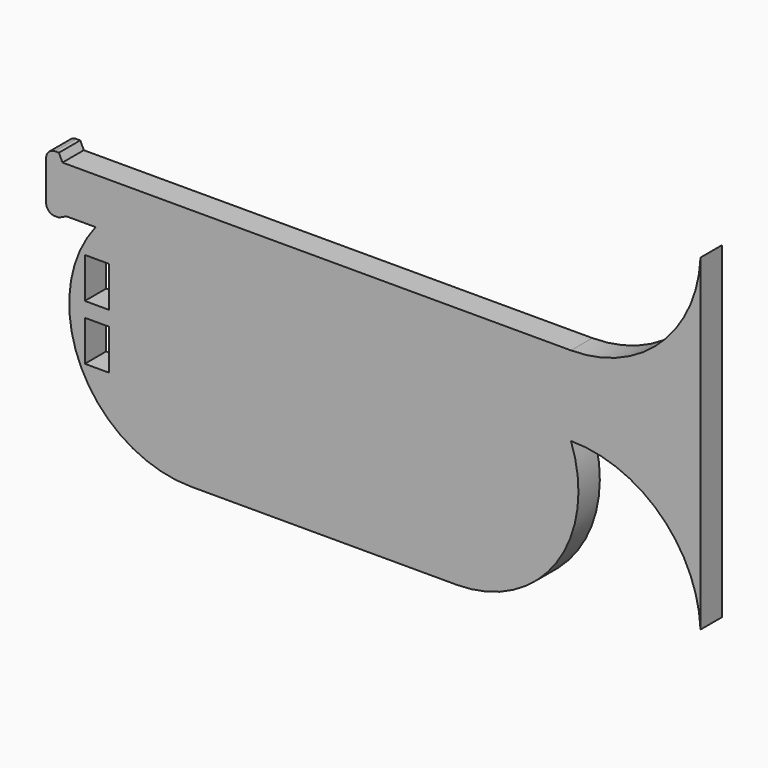
from build123d import *

# Parameters (mm, degrees)
F0_W     = 2.737404
F0_H     = 4.546472
F1_DEPTH = 3


with BuildPart() as f1:
    # F0 (on Front) → F1 (new body)
    with BuildSketch(Plane.XZ):
        with BuildLine():
            Line((-13.987926, 8.498384), (-10.707829, 8.498384))
            ThreePointArc((-10.707829, 8.498384), (-12.309682, -5.945743), (0, -13.670411))
            Line((0, -13.670411), (29.832561, -13.670411))
            ThreePointArc((29.832561, -13.670411), (41.043965, -7.822055), (42.662639, 4.719028))
            ThreePointArc((42.662639, 4.719028), (52.727763, 0.681112), (57.211477, -9.193492))
            Line((57.211477, -9.193492), (57.211477, 27.582931))
            ThreePointArc((57.211477, 27.582931), (52.727763, 17.708327), (42.662639, 13.670411))
            Line((42.662639, 13.670411), (29.832561, 13.670411))
            Line((29.832561, 13.670411), (0, 13.670411))
            Line((0, 13.670411), (-14.430738, 13.670411))
            Line((-14.430738, 13.670411), (-14.829716, 14.512201))
            Line((-14.829716, 14.512201), (-15.268202, 14.512201))
            ThreePointArc((-15.268202, 14.512201), (-15.975309, 14.219308), (-16.268202, 13.512201))
            Line((-16.268202, 13.512201), (-16.268202, 9.099406))
            ThreePointArc((-16.268202, 9.099406), (-15.975309, 8.392299), (-15.268202, 8.099406))
            Line((-15.268202, 8.099406), (-14.829716, 8.099406))
            Line((-14.829716, 8.099406), (-13.987926, 8.498384))
        make_face()
        with Locations((-10.55231, -3.129101)):
            Rectangle(F0_W, F0_H, mode=Mode.SUBTRACT)
        with Locations((-10.55231, 3.082649)):
            Rectangle(F0_W, F0_H, mode=Mode.SUBTRACT)
    extrude(amount=F1_DEPTH)


solid = f1.part
